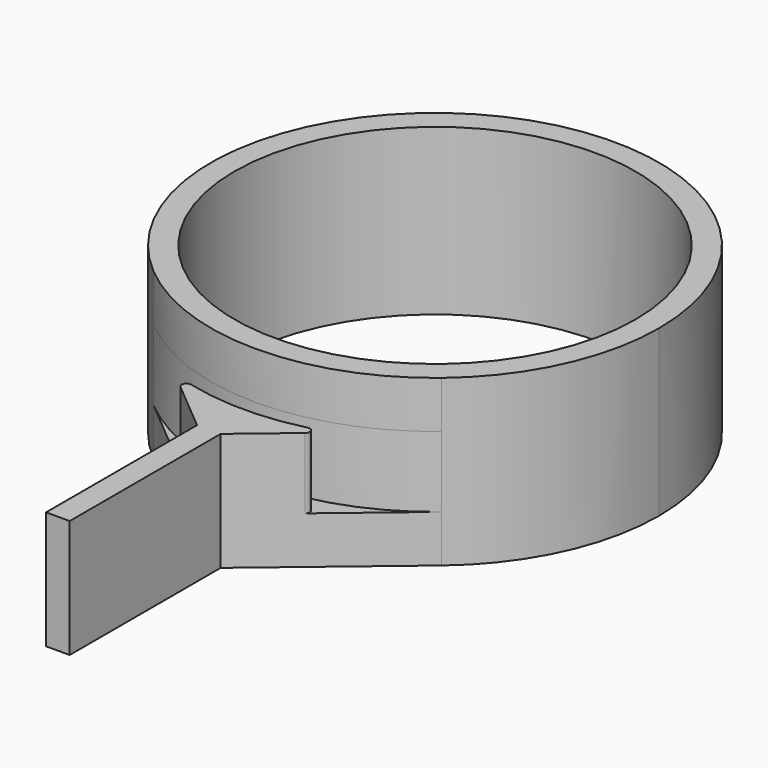
from build123d import *

# Parameters (mm, degrees)
F0_R     = 47.5
F0_R_2   = 42.5
F1_DEPTH = 35
F3_DEPTH = 25
F5_DEPTH = 25
F6_R     = 1


with BuildPart() as f1:
    # F0 (on Top) → F1 (new body)
    with BuildSketch(Plane.XY):
        Circle(F0_R)
        Circle(F0_R_2, mode=Mode.SUBTRACT)
    extrude(amount=F1_DEPTH)

    # F2 (on Top) → F3 (join)
    with BuildSketch(Plane.XY):
        Polygon((0, -47.5), (-30.5324114601, -36.3871110482), (-2.5, -59.9090971653), (-2.5, -99.9090971653), (0, -99.9090971653), (2.5, -99.9090971653), (2.5, -59.9090971653), (30.5324114601, -36.3871110482), align=None)
    extrude(amount=F3_DEPTH)

    # F4 (on face) → F5 (cut)
    with BuildSketch(Plane.XY.offset(35)):
        with BuildLine():
            ThreePointArc((30.5324114601, -36.3871110482), (0, -47.5), (-30.5324114601, -36.3871110482))
            Line((-30.5324114601, -36.3871110482), (-32.5893318111, -38.8384532661))
            ThreePointArc((-32.5893318111, -38.8384532661), (0, -50.7), (32.5893318111, -38.8384532661))
            Line((32.5893318111, -38.8384532661), (30.5324114601, -36.3871110482))
        make_face()
    extrude(amount=-F5_DEPTH, mode=Mode.SUBTRACT)

    # F6
    f6_edges = [f1.edges().sort_by_distance(p)[0] for p in [
        (16.952883, -47.781689, 17.5),
        (-16.952883, -47.781689, 17.5),
    ]]
    fillet(f6_edges, radius=F6_R)


solid = f1.part
